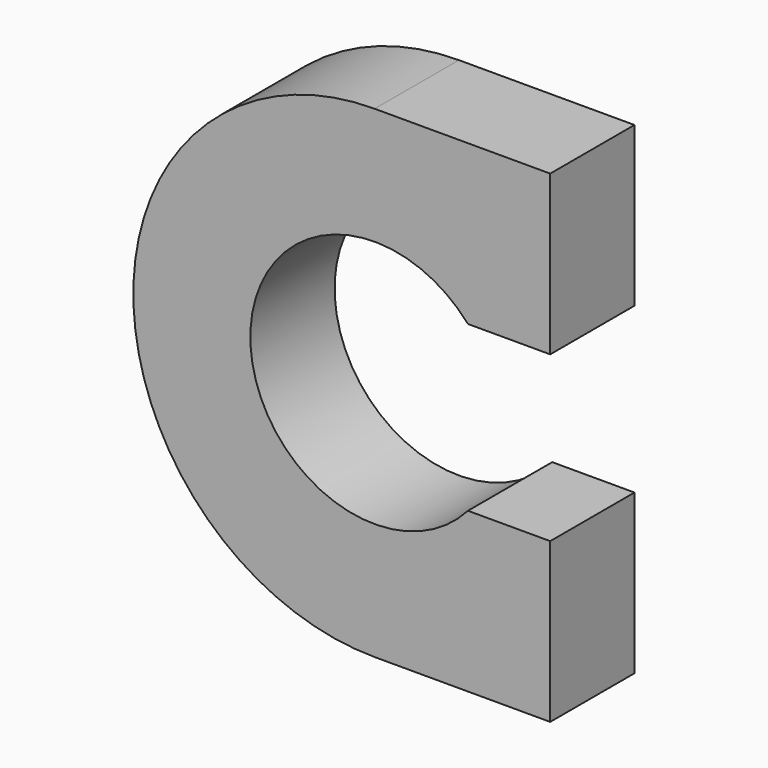
from build123d import *

# Parameters (mm, degrees)
PAD_DEPTH = 1.8


with BuildPart() as part:
    # Sketch → Pad (new body)
    with BuildSketch(Plane.XZ):
        with BuildLine():
            ThreePointArc((1.59424, 1.405), (-2.125, 0), (1.59424, -1.405))
            Line((3, -1.405), (1.59424, -1.405))
            Line((3, -1.405), (3, -4.125))
            Line((3, -4.125), (0, -4.125))
            ThreePointArc((0, 4.125), (-4.125, 0), (0, -4.125))
            Line((0, 4.125), (3, 4.125))
            Line((3, 4.125), (3, 1.405))
            Line((1.59424, 1.405), (3, 1.405))
        make_face()
    extrude(amount=PAD_DEPTH)


solid = part.part
